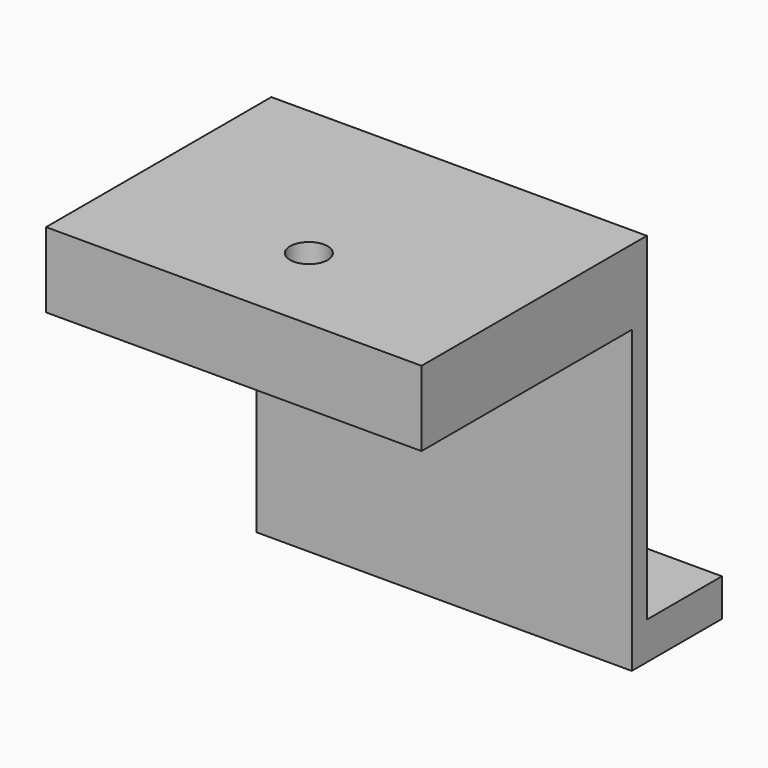
from build123d import *

# Parameters (mm, degrees)
F1_DEPTH       = 1000
F3_D           = 100
F5_D           = 50
F5_CBORE_D     = 100
F5_CBORE_DEPTH = 100


with BuildPart() as f1:
    # F0 (on Right) → F1 (new body)
    with BuildSketch(Plane.YZ):
        Polygon((-300, 0), (0, 0), (0, 100), (-250, 100), (-250, 1000), (-1000, 1000), (-1000, 800), (-300, 800), align=None)
    extrude(amount=F1_DEPTH)

    # F3 (through all)
    with Locations(Plane.XY.offset(100)):
        with Locations((500, -120)):
            Hole(F3_D / 2)

    # F5 (through all)
    with Locations(Plane.XY.offset(1000)):
        with Locations((500, -750)):
            CounterBoreHole(F5_D / 2, F5_CBORE_D / 2, F5_CBORE_DEPTH)


solid = f1.part
